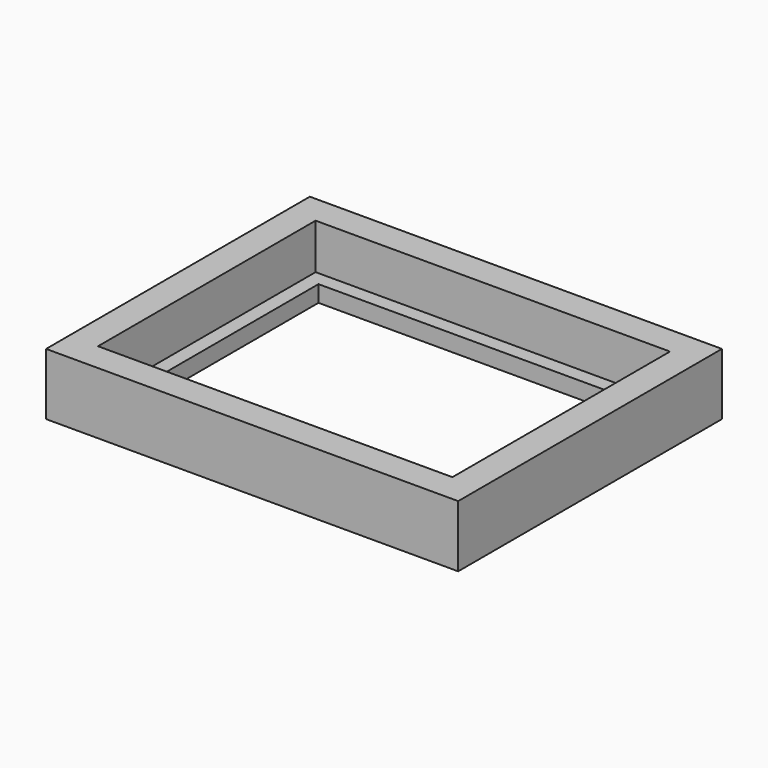
from build123d import *

# Parameters (mm, degrees)
F0_W     = 100
F0_H     = 80
F1_DEPTH = 15
F2_W     = 86
F2_H     = 66
F3_DEPTH = 11
F4_W     = 79
F4_H     = 59
F5_DEPTH = 4.001


with BuildPart() as f1:
    # F0 (on Top) → F1 (new body)
    with BuildSketch(Plane.XY):
        Rectangle(F0_W, F0_H)
    extrude(amount=F1_DEPTH)

    # F2 (on face) → F3 (cut)
    with BuildSketch(Plane.XY.offset(15)):
        Rectangle(F2_W, F2_H)
    extrude(amount=-F3_DEPTH, mode=Mode.SUBTRACT)

    # F4 (on face) → F5 (cut, through all)
    with BuildSketch(Plane.XY.offset(4)):
        Rectangle(F4_W, F4_H)
    extrude(amount=-F5_DEPTH, mode=Mode.SUBTRACT)


solid = f1.part
